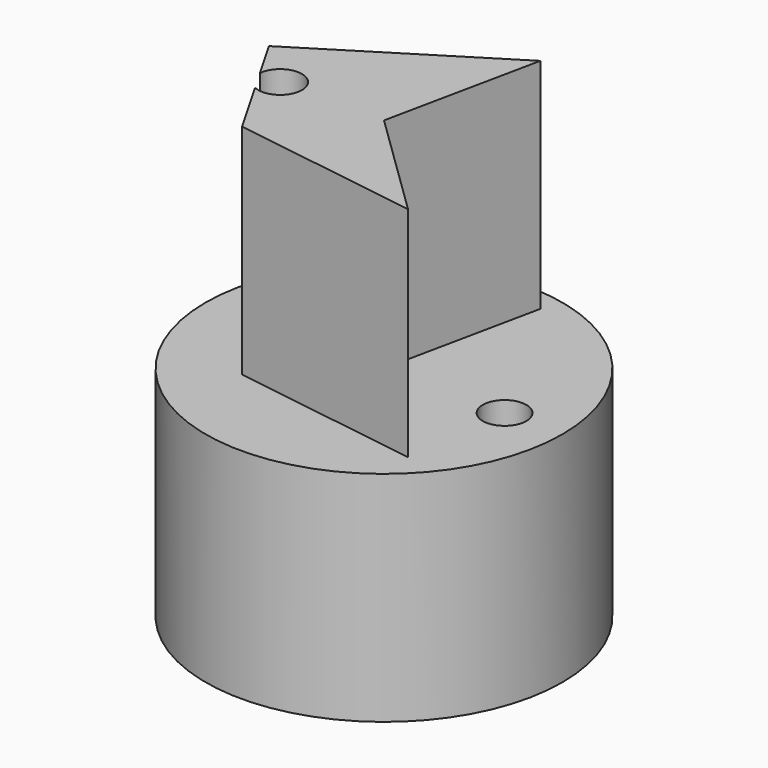
from build123d import *

# Parameters (mm, degrees)
F0_R     = 20.426716
F1_DEPTH = 25
F3_DEPTH = 25
F5_D     = 5


with BuildPart() as f1:
    # F0 (on Top) → F1 (new body)
    with BuildSketch(Plane.XY):
        Circle(F0_R)
    extrude(amount=F1_DEPTH)

    # F2 (on face) → F3 (join)
    with BuildSketch(Plane.XY.offset(25)):
        Polygon((-9.159605, -8.859223), (12.427566, -12.093626), (0, 0), (3.715735, 17.731052), (-17.018216, 4.805511), align=None)
    extrude(amount=F3_DEPTH)

    # F5 (through all)
    with Locations(Plane(origin=(0, 0, 0), x_dir=(1, 0, 0), z_dir=(0, 0, -1))):
        with Locations((-11.890458, 0), (13.805311, 0)):
            Hole(F5_D / 2)


solid = f1.part
